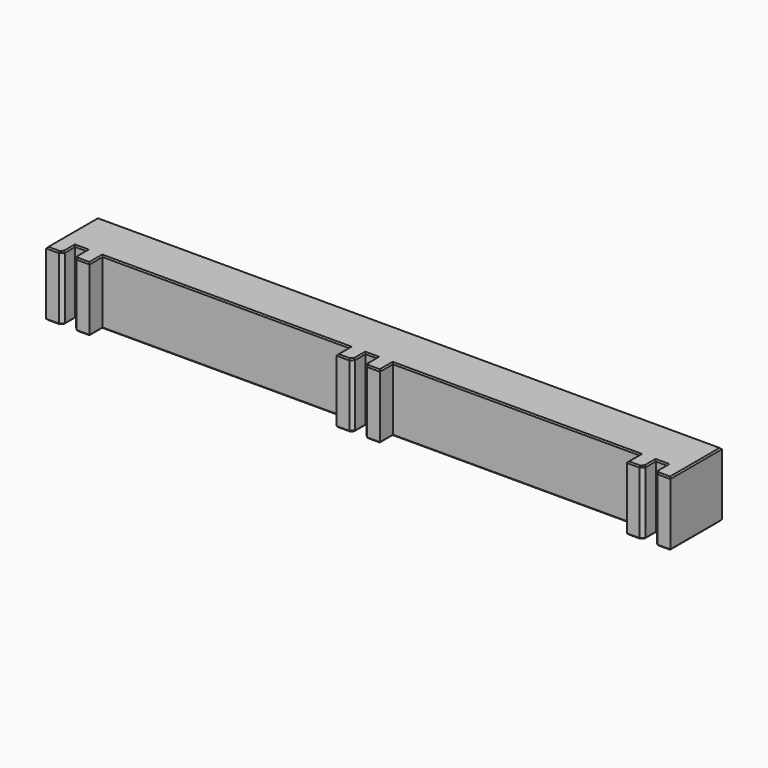
from build123d import *

# Parameters (mm, degrees)
F1_DEPTH = 10
F2_SIZE  = 0.5
F3_SIZE  = 0.2


with BuildPart() as f1:
    # F0 (on Top) → F1 (new body)
    with BuildSketch(Plane.XY):
        Polygon((-51.458716, 10), (-51.458716, 0), (-48.958716, 0), (-48.958716, 2.5), (-47.208716, 2.5), (-47.208716, 0), (-44.708716, 0), (-44.708716, 2.5), (-6.458716, 2.5), (-6.458716, 0), (-3.958716, 0), (-3.958716, 2.5), (-2.208716, 2.5), (-2.208716, 0), (0.291284, 0), (0.291284, 2.5), (38.541284, 2.5), (38.541284, 0), (41.041284, 0), (41.041284, 2.5), (42.791284, 2.5), (42.791284, 0), (45.291284, 0), (45.291284, 10), align=None)
    extrude(amount=F1_DEPTH)

    # F2
    f2_edges = [f1.edges().sort_by_distance(p)[0] for p in [
        (-48.958716, 0, 5),
        (-47.208716, 0, 5),
        (-2.208716, 0, 5),
        (-3.958716, 0, 5),
        (42.791284, 0, 5),
        (41.041284, 0, 5),
    ]]
    chamfer(f2_edges, length=F2_SIZE)

    # F3
    f3_edges = [f1.edges().sort_by_distance(p)[0] for p in [
        (-50.458716, 0, 10),
        (-49.208716, 0.25, 10),
        (-51.458716, 5, 10),
        (-48.958716, 1.5, 10),
        (-3.083716, 10, 10),
        (-48.083716, 2.5, 10),
        (45.291284, 5, 10),
        (-47.208716, 1.5, 10),
        (44.291284, 0, 10),
        (-46.958716, 0.25, 10),
        (43.041284, 0.25, 10),
        (-45.708716, 0, 10),
        (42.791284, 1.5, 10),
        (-44.708716, 1.25, 10),
        (41.916284, 2.5, 10),
        (-25.583716, 2.5, 10),
        (41.041284, 1.5, 10),
        (-6.458716, 1.25, 10),
        (40.791284, 0.25, 10),
        (-5.458716, 0, 10),
        (39.541284, 0, 10),
        (-4.208716, 0.25, 10),
        (38.541284, 1.25, 10),
        (-3.958716, 1.5, 10),
        (19.416284, 2.5, 10),
        (-3.083716, 2.5, 10),
        (0.291284, 1.25, 10),
        (-2.208716, 1.5, 10),
        (-0.708716, 0, 10),
        (-1.958716, 0.25, 10),
        (-50.458716, 0, 0),
        (-49.208716, 0.25, 0),
        (-51.458716, 5, 0),
        (-48.958716, 1.5, 0),
        (-3.083716, 10, 0),
        (-48.083716, 2.5, 0),
        (45.291284, 5, 0),
        (-47.208716, 1.5, 0),
        (44.291284, 0, 0),
        (-46.958716, 0.25, 0),
        (43.041284, 0.25, 0),
        (-45.708716, 0, 0),
        (42.791284, 1.5, 0),
        (-44.708716, 1.25, 0),
        (41.916284, 2.5, 0),
        (-25.583716, 2.5, 0),
        (41.041284, 1.5, 0),
        (-6.458716, 1.25, 0),
        (40.791284, 0.25, 0),
        (-5.458716, 0, 0),
        (39.541284, 0, 0),
        (-4.208716, 0.25, 0),
        (38.541284, 1.25, 0),
        (-3.958716, 1.5, 0),
        (19.416284, 2.5, 0),
        (-3.083716, 2.5, 0),
        (0.291284, 1.25, 0),
        (-2.208716, 1.5, 0),
        (-0.708716, 0, 0),
        (-1.958716, 0.25, 0),
    ]]
    chamfer(f3_edges, length=F3_SIZE)


solid = f1.part
